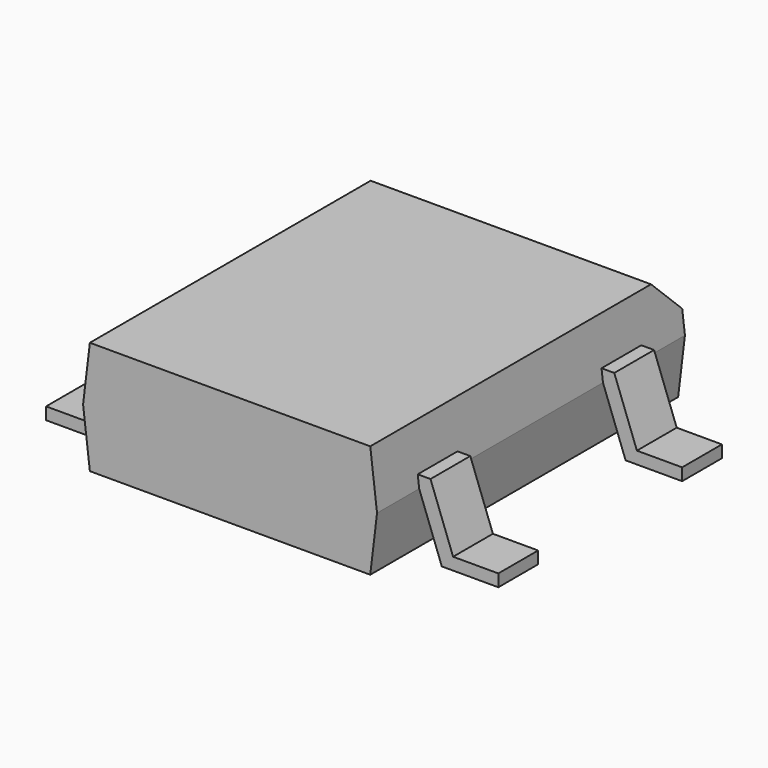
from build123d import *

# Parameters (mm, degrees)
PAD001_DEPTH = 0.55
PAD002_DEPTH = 0.55
PAD_DEPTH    = 4.255
CHAMFER_SIZE = 0.75


with BuildPart() as pad001:
    # Sketch001 → Pad001 (new body, symmetric)
    with BuildSketch(Plane.XZ.offset(2.54)):
        Polygon((-5, 0), (-3.75, 0), (-3.25, 1.35), (3.25, 1.35), (3.75, 0), (5, 0), (5, 0.27), (4, 0.27), (3.5, 1.62), (-3.5, 1.62), (-4, 0.27), (-5, 0.27), align=None)
    extrude(amount=PAD001_DEPTH, both=True)


with BuildPart() as pad002:
    # Sketch002 → Pad002 (new body, symmetric)
    with BuildSketch(Plane.XZ.offset(-2.54)):
        Polygon((-5, 0), (-3.75, 0), (-3.25, 1.35), (3.25, 1.35), (3.75, 0), (5, 0), (5, 0.27), (4, 0.27), (3.5, 1.62), (-3.5, 1.62), (-4, 0.27), (-5, 0.27), align=None)
    extrude(amount=PAD002_DEPTH, both=True)


with BuildPart() as obj1:
    # Sketch → Pad (new body, symmetric)
    with BuildSketch(Plane.XZ):
        Polygon((-3.1, 0.1), (3.1, 0.1), (3.25, 1.35), (3.1, 2.6), (-3.1, 2.6), (-3.25, 1.35), align=None)
    extrude(amount=PAD_DEPTH, both=True)

    # Chamfer
    chamfer_edges = [obj1.edges().sort_by_distance(p)[0] for p in [
        (0, 4.255, 2.6),
    ]]
    chamfer(chamfer_edges, length=CHAMFER_SIZE)

    add(pad001.part)
    add(pad002.part)


solid = obj1.part
